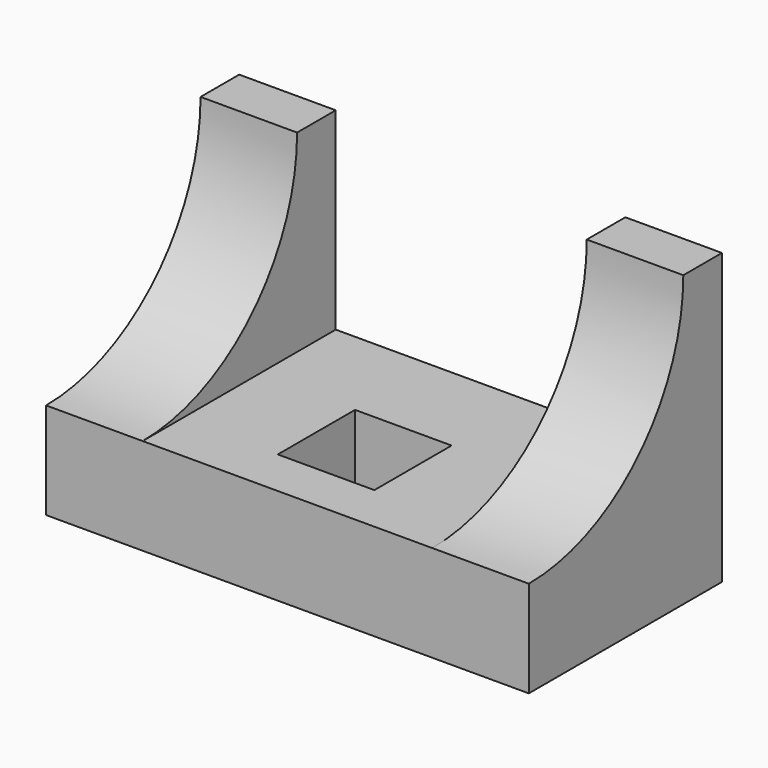
from build123d import *

# Parameters (mm, degrees)
F0_W     = 127
F0_H     = 76.2
F1_DEPTH = 63.5
F2_W     = 76.2
F2_H     = 50.8
F3_DEPTH = 63.5
F4_R     = 50.8
F5_DEPTH = 132.08
F6_W     = 25.4
F6_H     = 25.4
F7_DEPTH = 25.4


with BuildPart() as f1:
    # F0 (on Front) → F1 (new body)
    with BuildSketch(Plane.XZ):
        Rectangle(F0_W, F0_H)
    extrude(amount=F1_DEPTH)

    # F2 (on face) → F3 (cut)
    with BuildSketch(Plane.XZ.offset(63.5)):
        with Locations((0, 12.7)):
            Rectangle(F2_W, F2_H)
    extrude(amount=-F3_DEPTH, mode=Mode.SUBTRACT)

    # F4 (on face) → F5 (cut)
    with BuildSketch(Plane(origin=(-63.5, 0, 0), x_dir=(0, -1, 0), z_dir=(-1, 0, 0))):
        with Locations((63.5, 38.1)):
            Circle(F4_R)
    extrude(amount=-F5_DEPTH, mode=Mode.SUBTRACT)

    # F6 (on face) → F7 (cut)
    with BuildSketch(Plane.XY.offset(-12.7)):
        with Locations((0, -38.1)):
            Rectangle(F6_W, F6_H)
    extrude(amount=-F7_DEPTH, mode=Mode.SUBTRACT)


solid = f1.part
